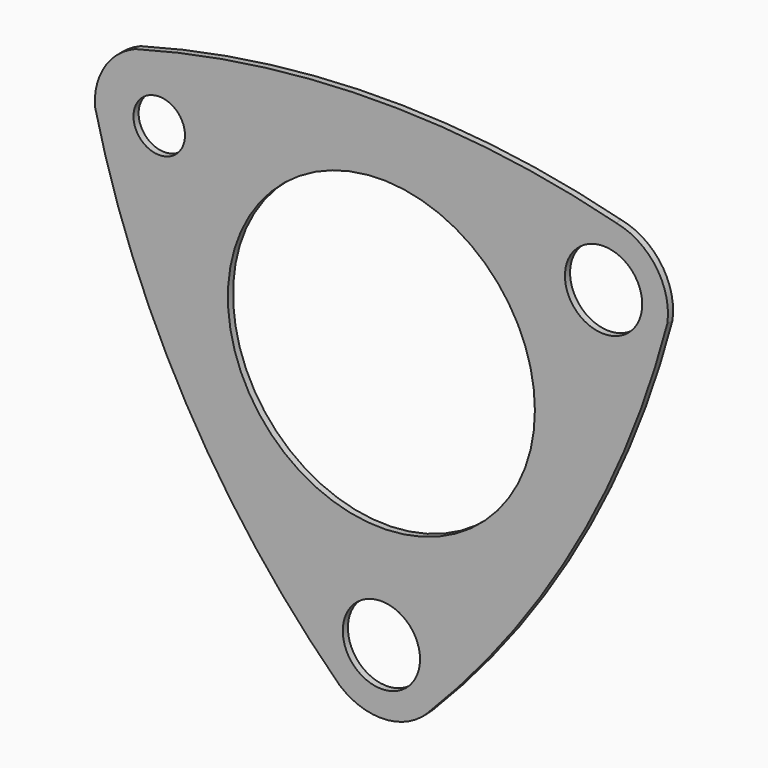
from build123d import *

# Parameters (mm, degrees)
F0_R     = 6
F0_R_2   = 4
F0_R_3   = 23.837169
F1_DEPTH = 1


with BuildPart() as f1:
    # F0 (on Front) → F1 (new body)
    with BuildSketch(Plane.XZ):
        with BuildLine():
            ThreePointArc((36.439317, 29.728735), (-0.919317, 34.356199), (-38.209367, 29.205166))
            ThreePointArc((-38.209367, 29.205166), (-42.945645, 25.273123), (-44.48159, 19.312069))
            ThreePointArc((-44.48159, 19.312069), (-30.280128, -16.75426), (-6.54421, -47.398472))
            ThreePointArc((-6.54421, -47.398472), (0.429493, -49.827941), (7.168973, -46.808956))
            ThreePointArc((7.168973, -46.808956), (30.038151, -16.547447), (44.406826, 18.556677))
            ThreePointArc((44.406826, 18.556677), (42.641652, 25.724917), (36.439317, 29.728735))
        make_face()
        with Locations((0, -39.837169)):
            Circle(F0_R, mode=Mode.SUBTRACT)
        with Locations((-34.5, 19.918584)):
            Circle(F0_R_2, mode=Mode.SUBTRACT)
        Circle(F0_R_3, mode=Mode.SUBTRACT)
        with Locations((34.5, 19.918584)):
            Circle(F0_R, mode=Mode.SUBTRACT)
    extrude(amount=F1_DEPTH)


solid = f1.part
